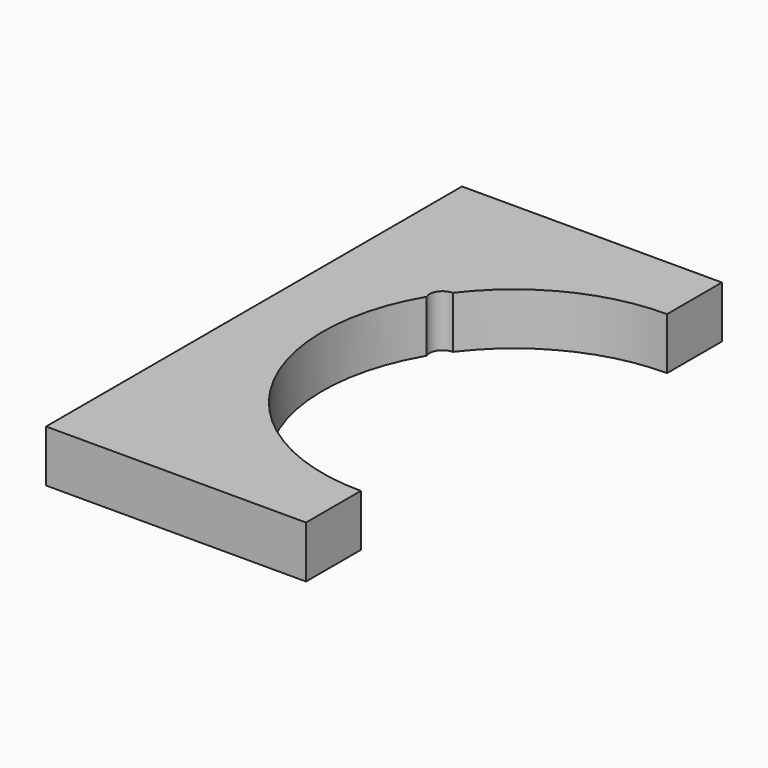
from build123d import *

# Parameters (mm, degrees)
F1_DEPTH = 10


with BuildPart() as f1:
    # F0 (on Top) → F1 (new body)
    with BuildSketch(Plane.XY):
        with BuildLine():
            Line((-51.252883, 53.409959), (-51.252883, -46.590041))
            Line((-51.252883, -46.590041), (-1.252883, -46.590041))
            Line((-1.252883, -46.590041), (-1.252883, -33.411522))
            ThreePointArc((-1.252883, -33.411522), (-33.210987, -14.879411), (-33.000307, 22.062641))
            ThreePointArc((-33.000307, 22.062641), (-32.770449, 24.403209), (-30.699235, 25.517284))
            ThreePointArc((-30.699235, 25.517284), (-17.711878, 36.348128), (-1.252883, 40.231441))
            Line((-1.252883, 40.231441), (-1.252883, 53.409959))
            Line((-1.252883, 53.409959), (-51.252883, 53.409959))
        make_face()
    extrude(amount=F1_DEPTH)


solid = f1.part
